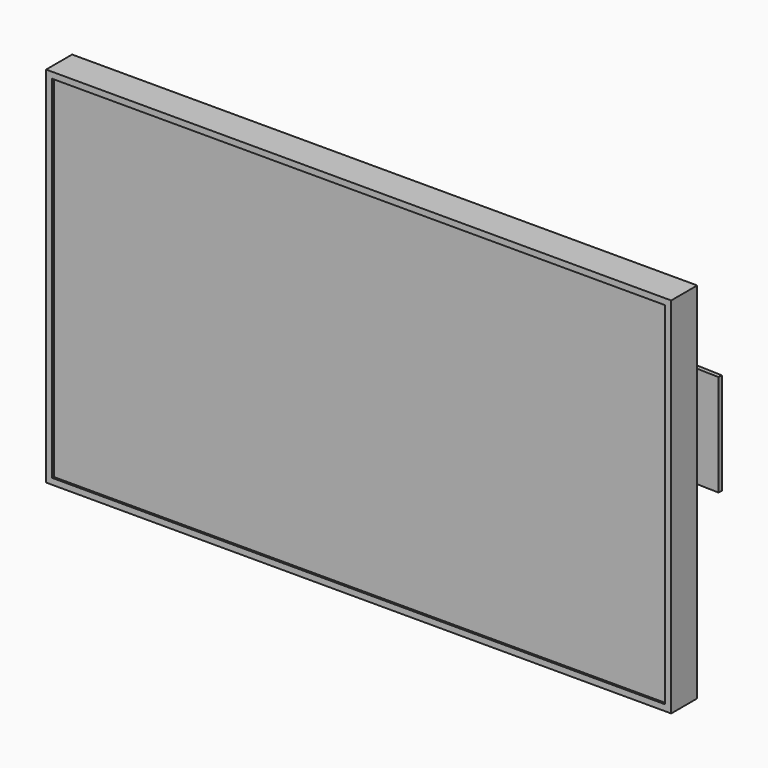
from build123d import *

# Parameters (mm, degrees)
F0_W     = 200
F0_H     = 50
F0_W_2   = 50
F1_DEPTH = 250
F2_W     = 1536.897368713
F2_H     = 893.9969116518
F3_DEPTH = 80
F4_W     = 1506.897368713
F4_H     = 863.9969116518
F5_DEPTH = 5


with BuildPart() as f1:
    # F0 (on Top) → F1 (new body)
    with BuildSketch(Plane.XY):
        with BuildLine():
            ThreePointArc((652.5786238231, 14970.7837516855), (-0.5294510276, 14984.9999906467), (-653.6365196693, 14970.7376004041))
            Line((-653.6365196696, 14970.7376004041), (-653.2003257959, 14960.7471181883))
            ThreePointArc((-653.200325796, 14960.7471181883), (-351.6715336626, 14970.8701194156), (-50, 14974.9165273133))
            ThreePointArc((-50, 14974.9165273133), (-25.0000348384, 14974.9791318138), (0, 14975))
            ThreePointArc((0, 14975), (25.0000348384, 14974.9791318138), (50, 14974.9165273133))
            ThreePointArc((50, 14974.9165273133), (351.1425816533, 14970.8825353534), (652.1431359193, 14960.7932386713))
            Line((652.1431359193, 14960.7932386713), (652.5786238231, 14970.7837516855))
        make_face()
        with BuildLine():
            ThreePointArc((0, 14975), (-25.0000348384, 14974.9791318138), (-50, 14974.9165273133))
            Line((-50, 14974.9165273133), (-50, 14800))
            Line((-50, 14800), (0, 14800))
            Line((0, 14800), (0, 14975))
        make_face()
        with BuildLine():
            Line((50, 14800), (50, 14974.9165273133))
            ThreePointArc((50, 14974.9165273133), (25.0000348384, 14974.9791318138), (0, 14975))
            Line((0, 14975), (0, 14800))
            Line((0, 14800), (50, 14800))
        make_face()
        with Locations((-150, 14775)):
            Rectangle(F0_W, F0_H)
        with Locations((-25, 14775)):
            Rectangle(F0_W_2, F0_H)
        with Locations((25, 14775)):
            Rectangle(F0_W_2, F0_H)
        with Locations((150, 14775)):
            Rectangle(F0_W, F0_H)
    extrude(amount=F1_DEPTH)

    # F2 (on face) → F3 (join)
    with BuildSketch(Plane.XZ.offset(-14750)):
        with Locations((0, 125)):
            Rectangle(F2_W, F2_H)
    extrude(amount=F3_DEPTH)

    # F4 (on face) → F5 (cut)
    with BuildSketch(Plane.XZ.offset(-14670)):
        with Locations((0, 125)):
            Rectangle(F4_W, F4_H)
    extrude(amount=-F5_DEPTH, mode=Mode.SUBTRACT)


solid = f1.part
